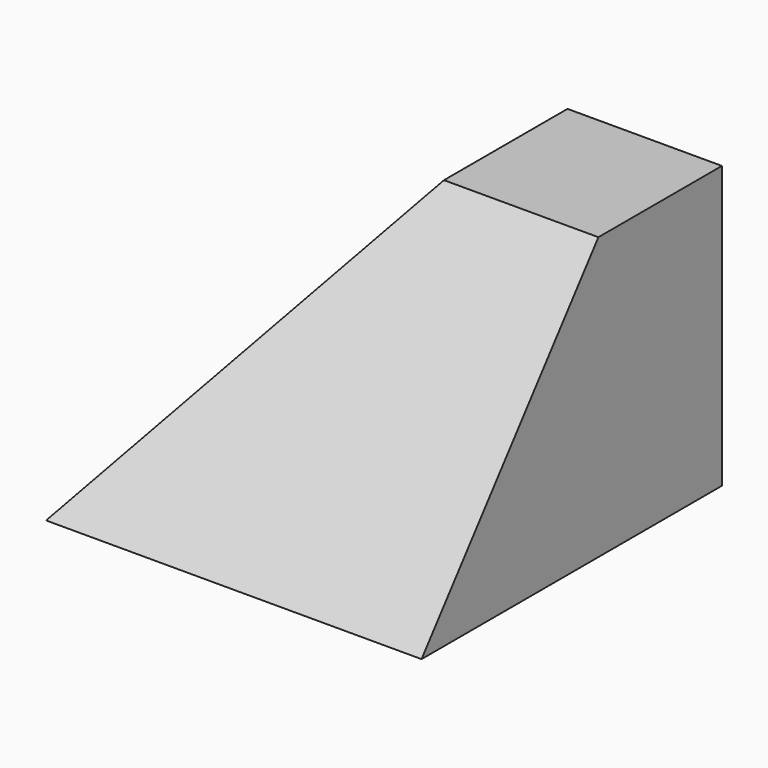
from build123d import *

# Parameters (mm, degrees)
BOX018_W     = 100
BOX018_H     = 100
BOX018_DEPTH = 75
SKETCH042_W  = 275
SKETCH042_H  = 275
SKETCH043_W  = 0.1
SKETCH043_H  = 0.1


with BuildPart() as cube:
    # Box018 → Box018 (new body)
    with BuildSketch(Plane.XY):
        with Locations((50, 50)):
            Rectangle(BOX018_W, BOX018_H)
    extrude(amount=BOX018_DEPTH)


with BuildPart() as legs001:
    # Sketch042 → Loft013 section 0
    with BuildSketch(Plane.XY):
        with Locations((137.5, 137.5)):
            Rectangle(SKETCH042_W, SKETCH042_H)
    # Sketch043 → Loft013 section 1
    with BuildSketch(Plane.XY.offset(175.1)):
        with Locations((137.5, 137.5)):
            Rectangle(SKETCH043_W, SKETCH043_H)
    loft()

    # Common012: intersect Cube
    add(cube.part, mode=Mode.INTERSECT)


with BuildPart() as legs001_1:
    # Common012 placement: moved
    add(legs001.part.moved(Location((-58.87, -58.87, -75))))


solid = legs001_1.part
